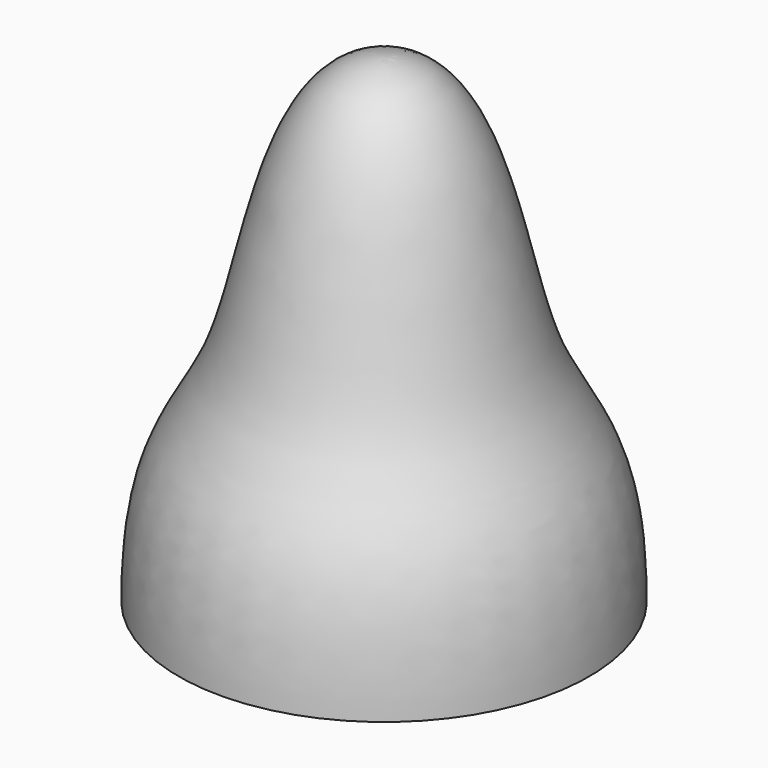
from build123d import *


with BuildPart() as f1:
    # F0 (on Front) → F1 (revolve)
    with BuildSketch(Plane.XZ):
        with BuildLine():
            Line((-38.1, 0), (0, 0))
            Line((0, 0), (0, 88.9))
            add(Edge.make_bspline(
                [(-38.1, 0), (-38.1, 26.3968743384), (-21.8597356907, 29.706234093), (-17.8835429251, 88.9), (0, 88.9)],
                knots=[0, 0, 0, 0, 0.4768662215, 1, 1, 1, 1], degree=3))
        make_face()
    revolve(axis=Axis((0, 0, 44.45), (0, 0, 1)))


solid = f1.part
